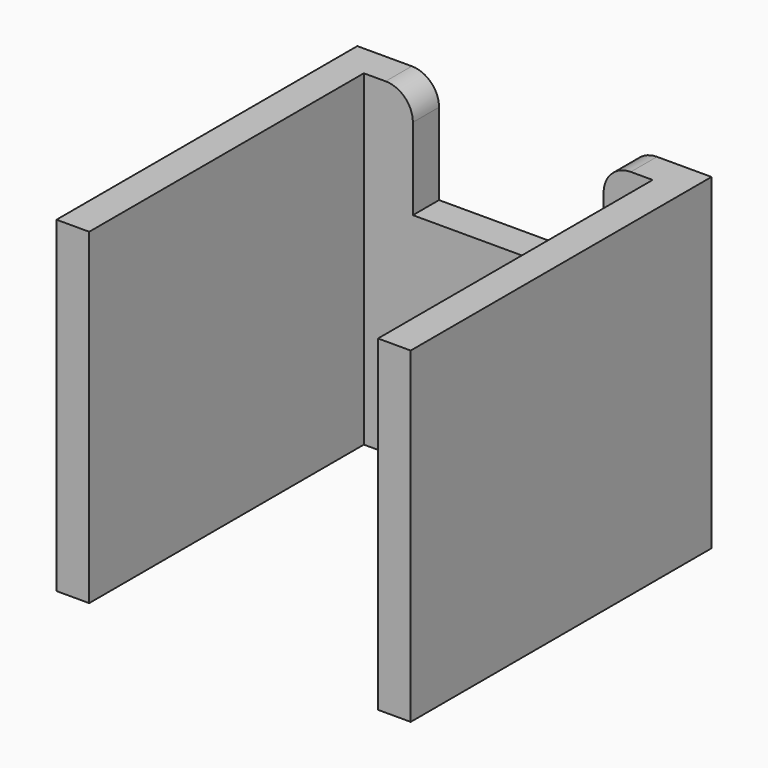
from build123d import *

# Parameters (mm, degrees)
F1_DEPTH = 60
F3_D     = 5
F4_W     = 35
F4_H     = 20
F5_DEPTH = 25
F6_R     = 5


with BuildPart() as f1:
    # F0 (on Top) → F1 (new body)
    with BuildSketch(Plane.XY):
        Polygon((0, 69), (0, 0), (6, 0), (6, 63), (59, 63), (59, 0), (65, 0), (65, 69), align=None)
    extrude(amount=F1_DEPTH)

    # F3 (through all)
    with Locations(Plane(origin=(0, 69, 0), x_dir=(-1, 0, 0), z_dir=(0, 1, 0))):
        with Locations((-32.5, 30)):
            Hole(F3_D / 2)

    # F4 (on face) → F5 (cut)
    with BuildSketch(Plane(origin=(0, 69, 0), x_dir=(-1, 0, 0), z_dir=(0, 1, 0))):
        with Locations((-32.5, 50)):
            Rectangle(F4_W, F4_H)
    extrude(amount=-F5_DEPTH, mode=Mode.SUBTRACT)

    # F6
    f6_edges = [f1.edges().sort_by_distance(p)[0] for p in [
        (15, 66, 60),
        (50, 66, 60),
    ]]
    fillet(f6_edges, radius=F6_R)


solid = f1.part
